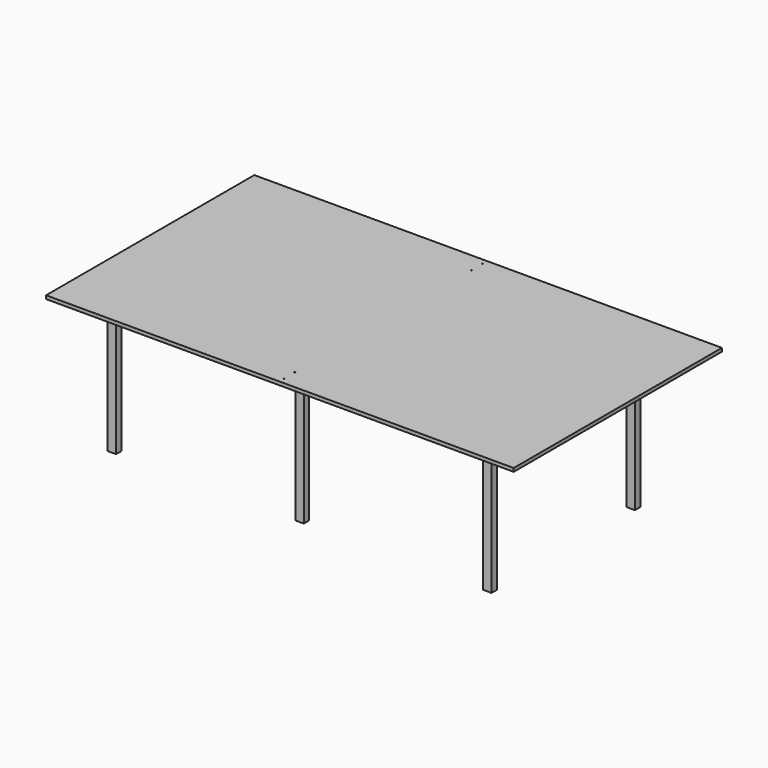
from build123d import *

# Parameters (mm, degrees)
F0_W     = 2740
F0_H     = 1525
F1_DEPTH = 20
F2_R     = 3
F3_DEPTH = 25
F4_W     = 50
F4_H     = 40
F5_DEPTH = 800


with BuildPart() as f1:
    # F0 (on Top) → F1 (new body)
    with BuildSketch(Plane.XY):
        with Locations((1370, 762.5)):
            Rectangle(F0_W, F0_H)
    extrude(amount=F1_DEPTH)

    # F2 (on face) → F3 (cut)
    with BuildSketch(Plane.XY.offset(20)):
        with Locations((1365, 1490)):
            Circle(F2_R)
        with Locations((1365, 1410)):
            Circle(F2_R)
        with Locations((1365, 35)):
            Circle(F2_R)
        with Locations((1365, 115)):
            Circle(F2_R)
    extrude(amount=-F3_DEPTH, mode=Mode.SUBTRACT)

    # F4 (on face) → F5 (join)
    with BuildSketch(Plane(origin=(0, 0, 0), x_dir=(1, 0, 0), z_dir=(0, 0, -1))):
        with Locations((225, -220)):
            Rectangle(F4_W, F4_H)
        with Locations((225, -1270)):
            Rectangle(F4_W, F4_H)
        with Locations((1325, -220)):
            Rectangle(F4_W, F4_H)
        with Locations((1325, -1270)):
            Rectangle(F4_W, F4_H)
        with Locations((2425, -220)):
            Rectangle(F4_W, F4_H)
        with Locations((2425, -1270)):
            Rectangle(F4_W, F4_H)
    extrude(amount=F5_DEPTH)


solid = f1.part
